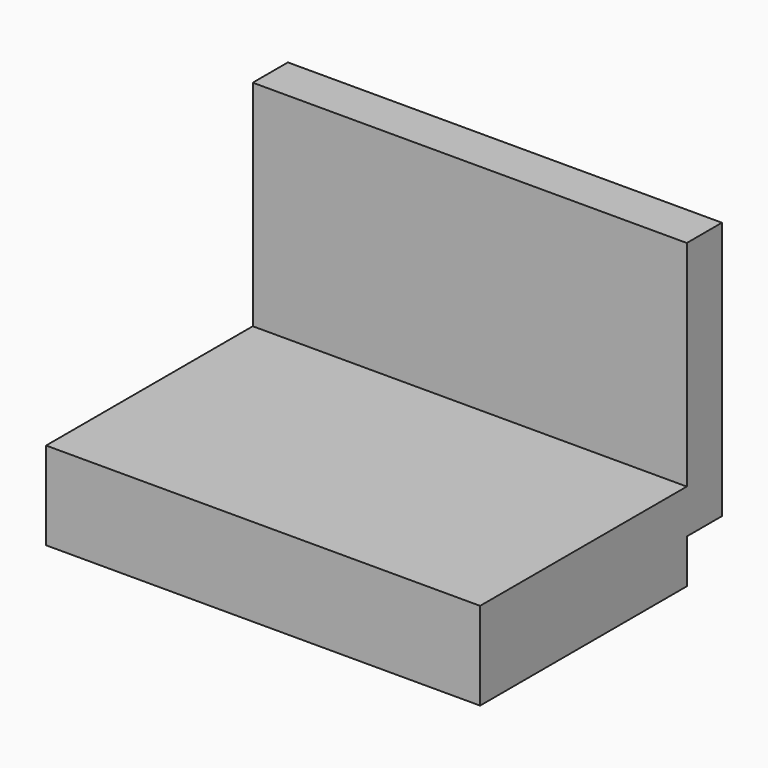
from build123d import *

# Parameters (mm, degrees)
F0_W     = 533.4
F0_H     = 317.5
F1_DEPTH = 53.975
F2_W     = 533.4
F2_H     = 53.975
F3_DEPTH = 317.5


with BuildPart() as f1:
    # F0 (on Top) → F1 (new body, symmetric)
    with BuildSketch(Plane.XY):
        Rectangle(F0_W, F0_H)
    extrude(amount=F1_DEPTH, both=True)

    # F2 (on Top) → F3 (join)
    with BuildSketch(Plane.XY):
        with Locations((0, 185.7375)):
            Rectangle(F2_W, F2_H)
    extrude(amount=F3_DEPTH)


solid = f1.part
